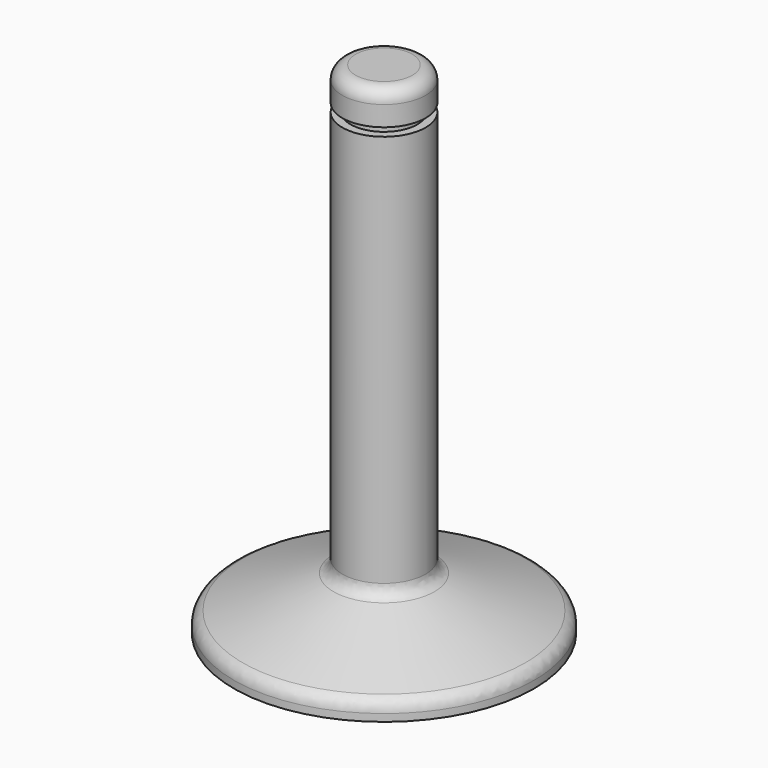
from build123d import *

# Parameters (mm, degrees)
F2_R = 1.016
F3_W = 0.635
F3_H = 0.635
F5_R = 1.016


with BuildPart() as f1:
    # F0 (on Front) → F1 (revolve)
    with BuildSketch(Plane.XZ):
        Polygon((0, 38.1), (0, 0), (11.43, 0), (11.43, 1.27), (3.175, 4.274574), (3.175, 38.1), align=None)
    revolve(axis=Axis((0, 0, 19.05), (0, 0, -1)))

    # F2
    f2_edges = [f1.edges().sort_by_distance(p)[0] for p in [
        (-11.43, 0, 1.27),
        (-3.175, 0, 4.274574),
    ]]
    fillet(f2_edges, radius=F2_R)

    # F3 (on Front) → F4 (revolve, cut)
    with BuildSketch(Plane.XZ):
        with Locations((2.8575, 35.2425)):
            Rectangle(F3_W, F3_H)
    revolve(axis=Axis((0, 0, 4.274574), (0, 0, 1)), mode=Mode.SUBTRACT)

    # F5
    f5_edges = [f1.edges().sort_by_distance(p)[0] for p in [
        (-3.175, 0, 38.1),
    ]]
    fillet(f5_edges, radius=F5_R)


solid = f1.part
